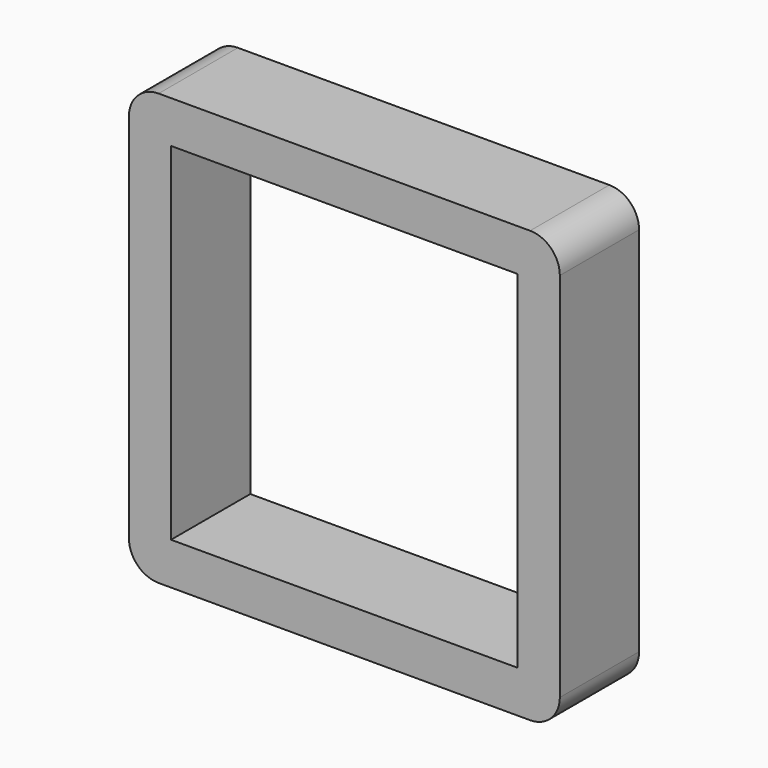
from build123d import *

# Parameters (mm, degrees)
F0_W     = 43.5
F0_H     = 43.5
F0_W_2   = 35
F0_H_2   = 35
F1_DEPTH = 10
F2_R     = 3


with BuildPart() as f1:
    # F0 (on Front) → F1 (new body)
    with BuildSketch(Plane.XZ):
        Rectangle(F0_W, F0_H)
        Rectangle(F0_W_2, F0_H_2, mode=Mode.SUBTRACT)
    extrude(amount=F1_DEPTH)

    # F2
    f2_edges = [f1.edges().sort_by_distance(p)[0] for p in [
        (-21.75, -5, 21.75),
        (21.75, -5, 21.75),
        (21.75, -5, -21.75),
        (-21.75, -5, -21.75),
    ]]
    fillet(f2_edges, radius=F2_R)


solid = f1.part
